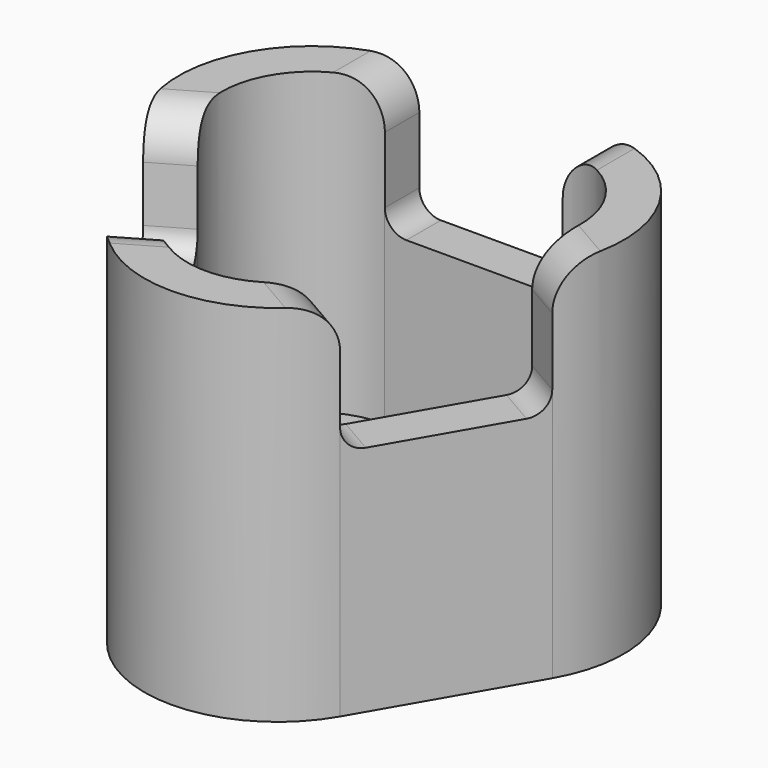
from build123d import *

# Parameters (mm, degrees)
F2_DEPTH  = 17.6665466667
F3_DEPTH  = 3.81
F5_W      = 10.4865888134
F5_H      = 7.7739614062
F6_DEPTH  = 30.1752
F8_W      = 10.48512
F8_H      = 7.7724
F9_DEPTH  = 32.004
F11_W     = 10.48512
F11_H     = 7.7724
F12_DEPTH = 31.6738
F13_R     = 2.54
F14_R     = 1.27


with BuildPart() as f2:
    # F1 (on Top) → F2 (new body)
    with BuildSketch(Plane.XY):
        with BuildLine():
            Line((6.8124849158, -9.9955756726), (12.0626649158, -0.9019971637))
            ThreePointArc((12.0626649158, -0.9019971637), (12.0626649158, 6.9643828363), (5.25018, 10.8975728363))
            Line((5.25018, 10.8975728363), (-5.25018, 10.8975728363))
            ThreePointArc((-5.25018, 10.8975728363), (-12.0626649158, 6.9643828363), (-12.0626649158, -0.9019971637))
            Line((-12.0626649158, -0.9019971637), (-6.8124849158, -9.9955756726))
            ThreePointArc((-6.8124849158, -9.9955756726), (0, -13.9287656726), (6.8124849158, -9.9955756726))
        make_face()
        with BuildLine():
            ThreePointArc((-9.8629603902, 0.3680028363), (-9.8629603902, 5.6943828363), (-5.25018, 8.3575728363))
            Line((-5.25018, 8.3575728363), (5.25018, 8.3575728363))
            ThreePointArc((5.25018, 8.3575728363), (9.8629603902, 5.6943828363), (9.8629603902, 0.3680028363))
            Line((9.8629603902, 0.3680028363), (4.6127803902, -8.7255756726))
            ThreePointArc((4.6127803902, -8.7255756726), (0, -11.3887656726), (-4.6127803902, -8.7255756726))
            Line((-4.6127803902, -8.7255756726), (-9.8629603902, 0.3680028363))
        make_face(mode=Mode.SUBTRACT)
        with BuildLine():
            Line((6.8124849158, -9.9955756726), (12.0626649158, -0.9019971637))
            ThreePointArc((12.0626649158, -0.9019971637), (12.0626649158, 6.9643828363), (5.25018, 10.8975728363))
            Line((5.25018, 10.8975728363), (-5.25018, 10.8975728363))
            ThreePointArc((-5.25018, 10.8975728363), (-12.0626649158, 6.9643828363), (-12.0626649158, -0.9019971637))
            Line((-12.0626649158, -0.9019971637), (-6.8124849158, -9.9955756726))
            ThreePointArc((-6.8124849158, -9.9955756726), (0, -13.9287656726), (6.8124849158, -9.9955756726))
        make_face()
        with BuildLine():
            ThreePointArc((-9.8629603902, 0.3680028363), (-9.8629603902, 5.6943828363), (-5.25018, 8.3575728363))
            Line((-5.25018, 8.3575728363), (5.25018, 8.3575728363))
            ThreePointArc((5.25018, 8.3575728363), (9.8629603902, 5.6943828363), (9.8629603902, 0.3680028363))
            Line((9.8629603902, 0.3680028363), (4.6127803902, -8.7255756726))
            ThreePointArc((4.6127803902, -8.7255756726), (0, -11.3887656726), (-4.6127803902, -8.7255756726))
            Line((-4.6127803902, -8.7255756726), (-9.8629603902, 0.3680028363))
        make_face(mode=Mode.SUBTRACT)
        with BuildLine():
            Line((6.8124849158, -9.9955756726), (12.0626649158, -0.9019971637))
            ThreePointArc((12.0626649158, -0.9019971637), (12.0626649158, 6.9643828363), (5.25018, 10.8975728363))
            Line((5.25018, 10.8975728363), (-5.25018, 10.8975728363))
            ThreePointArc((-5.25018, 10.8975728363), (-12.0626649158, 6.9643828363), (-12.0626649158, -0.9019971637))
            Line((-12.0626649158, -0.9019971637), (-6.8124849158, -9.9955756726))
            ThreePointArc((-6.8124849158, -9.9955756726), (0, -13.9287656726), (6.8124849158, -9.9955756726))
        make_face()
        with BuildLine():
            ThreePointArc((-9.8629603902, 0.3680028363), (-9.8629603902, 5.6943828363), (-5.25018, 8.3575728363))
            Line((-5.25018, 8.3575728363), (5.25018, 8.3575728363))
            ThreePointArc((5.25018, 8.3575728363), (9.8629603902, 5.6943828363), (9.8629603902, 0.3680028363))
            Line((9.8629603902, 0.3680028363), (4.6127803902, -8.7255756726))
            ThreePointArc((4.6127803902, -8.7255756726), (0, -11.3887656726), (-4.6127803902, -8.7255756726))
            Line((-4.6127803902, -8.7255756726), (-9.8629603902, 0.3680028363))
        make_face(mode=Mode.SUBTRACT)
    extrude(amount=F2_DEPTH)

    # F1 (on Top) → F3 (join)
    with BuildSketch(Plane.XY):
        with BuildLine():
            Line((6.8124849158, -9.9955756726), (12.0626649158, -0.9019971637))
            ThreePointArc((12.0626649158, -0.9019971637), (12.0626649158, 6.9643828363), (5.25018, 10.8975728363))
            Line((5.25018, 10.8975728363), (-5.25018, 10.8975728363))
            ThreePointArc((-5.25018, 10.8975728363), (-12.0626649158, 6.9643828363), (-12.0626649158, -0.9019971637))
            Line((-12.0626649158, -0.9019971637), (-6.8124849158, -9.9955756726))
            ThreePointArc((-6.8124849158, -9.9955756726), (0, -13.9287656726), (6.8124849158, -9.9955756726))
        make_face()
        with BuildLine():
            ThreePointArc((-9.8629603902, 0.3680028363), (-9.8629603902, 5.6943828363), (-5.25018, 8.3575728363))
            Line((-5.25018, 8.3575728363), (5.25018, 8.3575728363))
            ThreePointArc((5.25018, 8.3575728363), (9.8629603902, 5.6943828363), (9.8629603902, 0.3680028363))
            Line((9.8629603902, 0.3680028363), (4.6127803902, -8.7255756726))
            ThreePointArc((4.6127803902, -8.7255756726), (0, -11.3887656726), (-4.6127803902, -8.7255756726))
            Line((-4.6127803902, -8.7255756726), (-9.8629603902, 0.3680028363))
        make_face(mode=Mode.SUBTRACT)
        with BuildLine():
            Line((6.8124849158, -9.9955756726), (12.0626649158, -0.9019971637))
            ThreePointArc((12.0626649158, -0.9019971637), (12.0626649158, 6.9643828363), (5.25018, 10.8975728363))
            Line((5.25018, 10.8975728363), (-5.25018, 10.8975728363))
            ThreePointArc((-5.25018, 10.8975728363), (-12.0626649158, 6.9643828363), (-12.0626649158, -0.9019971637))
            Line((-12.0626649158, -0.9019971637), (-6.8124849158, -9.9955756726))
            ThreePointArc((-6.8124849158, -9.9955756726), (0, -13.9287656726), (6.8124849158, -9.9955756726))
        make_face()
        with BuildLine():
            ThreePointArc((-9.8629603902, 0.3680028363), (-9.8629603902, 5.6943828363), (-5.25018, 8.3575728363))
            Line((-5.25018, 8.3575728363), (5.25018, 8.3575728363))
            ThreePointArc((5.25018, 8.3575728363), (9.8629603902, 5.6943828363), (9.8629603902, 0.3680028363))
            Line((9.8629603902, 0.3680028363), (4.6127803902, -8.7255756726))
            ThreePointArc((4.6127803902, -8.7255756726), (0, -11.3887656726), (-4.6127803902, -8.7255756726))
            Line((-4.6127803902, -8.7255756726), (-9.8629603902, 0.3680028363))
        make_face(mode=Mode.SUBTRACT)
        with BuildLine():
            Line((6.8124849158, -9.9955756726), (12.0626649158, -0.9019971637))
            ThreePointArc((12.0626649158, -0.9019971637), (12.0626649158, 6.9643828363), (5.25018, 10.8975728363))
            Line((5.25018, 10.8975728363), (-5.25018, 10.8975728363))
            ThreePointArc((-5.25018, 10.8975728363), (-12.0626649158, 6.9643828363), (-12.0626649158, -0.9019971637))
            Line((-12.0626649158, -0.9019971637), (-6.8124849158, -9.9955756726))
            ThreePointArc((-6.8124849158, -9.9955756726), (0, -13.9287656726), (6.8124849158, -9.9955756726))
        make_face()
        with BuildLine():
            ThreePointArc((-9.8629603902, 0.3680028363), (-9.8629603902, 5.6943828363), (-5.25018, 8.3575728363))
            Line((-5.25018, 8.3575728363), (5.25018, 8.3575728363))
            ThreePointArc((5.25018, 8.3575728363), (9.8629603902, 5.6943828363), (9.8629603902, 0.3680028363))
            Line((9.8629603902, 0.3680028363), (4.6127803902, -8.7255756726))
            ThreePointArc((4.6127803902, -8.7255756726), (0, -11.3887656726), (-4.6127803902, -8.7255756726))
            Line((-4.6127803902, -8.7255756726), (-9.8629603902, 0.3680028363))
        make_face(mode=Mode.SUBTRACT)
        with BuildLine():
            Line((6.8124849158, -9.9955756726), (12.0626649158, -0.9019971637))
            ThreePointArc((12.0626649158, -0.9019971637), (12.0626649158, 6.9643828363), (5.25018, 10.8975728363))
            Line((5.25018, 10.8975728363), (-5.25018, 10.8975728363))
            ThreePointArc((-5.25018, 10.8975728363), (-12.0626649158, 6.9643828363), (-12.0626649158, -0.9019971637))
            Line((-12.0626649158, -0.9019971637), (-6.8124849158, -9.9955756726))
            ThreePointArc((-6.8124849158, -9.9955756726), (0, -13.9287656726), (6.8124849158, -9.9955756726))
        make_face()
        with BuildLine():
            ThreePointArc((-9.8629603902, 0.3680028363), (-9.8629603902, 5.6943828363), (-5.25018, 8.3575728363))
            Line((-5.25018, 8.3575728363), (5.25018, 8.3575728363))
            ThreePointArc((5.25018, 8.3575728363), (9.8629603902, 5.6943828363), (9.8629603902, 0.3680028363))
            Line((9.8629603902, 0.3680028363), (4.6127803902, -8.7255756726))
            ThreePointArc((4.6127803902, -8.7255756726), (0, -11.3887656726), (-4.6127803902, -8.7255756726))
            Line((-4.6127803902, -8.7255756726), (-9.8629603902, 0.3680028363))
        make_face(mode=Mode.SUBTRACT)
        with BuildLine():
            Line((6.8124849158, -9.9955756726), (12.0626649158, -0.9019971637))
            ThreePointArc((12.0626649158, -0.9019971637), (12.0626649158, 6.9643828363), (5.25018, 10.8975728363))
            Line((5.25018, 10.8975728363), (-5.25018, 10.8975728363))
            ThreePointArc((-5.25018, 10.8975728363), (-12.0626649158, 6.9643828363), (-12.0626649158, -0.9019971637))
            Line((-12.0626649158, -0.9019971637), (-6.8124849158, -9.9955756726))
            ThreePointArc((-6.8124849158, -9.9955756726), (0, -13.9287656726), (6.8124849158, -9.9955756726))
        make_face()
        with BuildLine():
            ThreePointArc((-9.8629603902, 0.3680028363), (-9.8629603902, 5.6943828363), (-5.25018, 8.3575728363))
            Line((-5.25018, 8.3575728363), (5.25018, 8.3575728363))
            ThreePointArc((5.25018, 8.3575728363), (9.8629603902, 5.6943828363), (9.8629603902, 0.3680028363))
            Line((9.8629603902, 0.3680028363), (4.6127803902, -8.7255756726))
            ThreePointArc((4.6127803902, -8.7255756726), (0, -11.3887656726), (-4.6127803902, -8.7255756726))
            Line((-4.6127803902, -8.7255756726), (-9.8629603902, 0.3680028363))
        make_face(mode=Mode.SUBTRACT)
        with BuildLine():
            Line((6.8124849158, -9.9955756726), (12.0626649158, -0.9019971637))
            ThreePointArc((12.0626649158, -0.9019971637), (12.0626649158, 6.9643828363), (5.25018, 10.8975728363))
            Line((5.25018, 10.8975728363), (-5.25018, 10.8975728363))
            ThreePointArc((-5.25018, 10.8975728363), (-12.0626649158, 6.9643828363), (-12.0626649158, -0.9019971637))
            Line((-12.0626649158, -0.9019971637), (-6.8124849158, -9.9955756726))
            ThreePointArc((-6.8124849158, -9.9955756726), (0, -13.9287656726), (6.8124849158, -9.9955756726))
        make_face()
        with BuildLine():
            ThreePointArc((-9.8629603902, 0.3680028363), (-9.8629603902, 5.6943828363), (-5.25018, 8.3575728363))
            Line((-5.25018, 8.3575728363), (5.25018, 8.3575728363))
            ThreePointArc((5.25018, 8.3575728363), (9.8629603902, 5.6943828363), (9.8629603902, 0.3680028363))
            Line((9.8629603902, 0.3680028363), (4.6127803902, -8.7255756726))
            ThreePointArc((4.6127803902, -8.7255756726), (0, -11.3887656726), (-4.6127803902, -8.7255756726))
            Line((-4.6127803902, -8.7255756726), (-9.8629603902, 0.3680028363))
        make_face(mode=Mode.SUBTRACT)
        with BuildLine():
            Line((5.25018, 8.3575728363), (-5.25018, 8.3575728363))
            ThreePointArc((-5.25018, 8.3575728363), (-9.8629603902, 5.6943828363), (-9.8629603902, 0.3680028363))
            Line((-9.8629603902, 0.3680028363), (-4.6127803902, -8.7255756726))
            ThreePointArc((-4.6127803902, -8.7255756726), (0, -11.3887656726), (4.6127803902, -8.7255756726))
            Line((4.6127803902, -8.7255756726), (9.8629603902, 0.3680028363))
            ThreePointArc((9.8629603902, 0.3680028363), (9.8629603902, 5.6943828363), (5.25018, 8.3575728363))
        make_face()
    extrude(amount=-F3_DEPTH)

    # F5 (on offset) → F6 (cut)
    with BuildSketch(Plane(origin=(-31.4346201719, -18.1487864181, 0), x_dir=(0.5, -0.8660254038, 0), z_dir=(-0.8660254038, -0.5, 0))):
        with Locations((0.0030086376, 14.4617783371)):
            Rectangle(F5_W, F5_H)
    extrude(amount=-F6_DEPTH, mode=Mode.SUBTRACT)

    # F8 (on offset) → F9 (cut)
    with BuildSketch(Plane(origin=(0, 36.2975728363, 0), x_dir=(-1, 0, 0), z_dir=(0, 1, 0))):
        with Locations((-0.0165903475, 13.8303037011)):
            Rectangle(F8_W, F8_H)
    extrude(amount=-F9_DEPTH, mode=Mode.SUBTRACT)

    # F11 (on offset) → F12 (cut)
    with BuildSketch(Plane(origin=(31.4346201719, -18.1487864181, 0), x_dir=(0.5, 0.8660254038, 0), z_dir=(0.8660254038, -0.5, 0))):
        with Locations((-0.0020326115, 13.782461328)):
            Rectangle(F11_W, F11_H)
    extrude(amount=-F12_DEPTH, mode=Mode.SUBTRACT)

    # F13
    f13_edges = [f2.edges().sort_by_distance(p)[0] for p in [
        (5.25915, 9.627567, 17.666547),
        (-5.22597, 9.627573, 17.666547),
        (5.715426, -9.355737, 17.666547),
        (10.957986, -0.275357, 17.666547),
        (-5.714571, -9.357218, 17.666547),
        (-10.957866, -0.275566, 17.666547),
    ]]
    fillet(f13_edges, radius=F13_R)

    # F14
    f14_edges = [f2.edges().sort_by_distance(p)[0] for p in [
        (-5.714571, -9.357218, 10.574798),
        (5.25915, 9.627567, 9.944104),
        (-5.22597, 9.627573, 9.944104),
        (5.715426, -9.355737, 9.896261),
        (10.957986, -0.275357, 9.896261),
        (-10.957866, -0.275566, 10.574798),
    ]]
    fillet(f14_edges, radius=F14_R)


solid = f2.part
